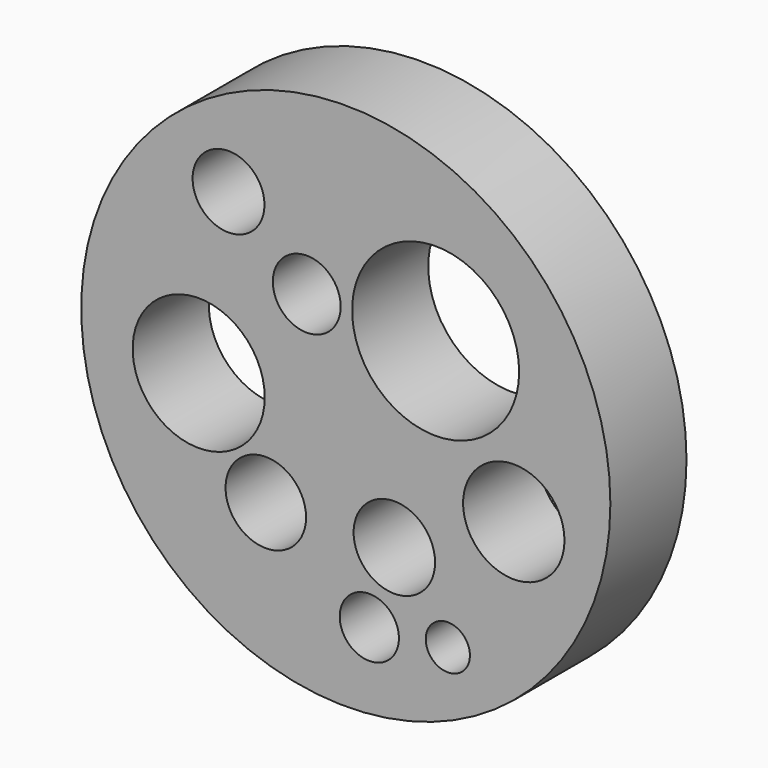
from build123d import *

# Parameters (mm, degrees)
F0_R     = 70.61683
F0_R_2   = 10.743272
F0_R_3   = 7.900031
F0_R_4   = 5.895287
F0_R_5   = 10.871221
F0_R_6   = 13.527406
F0_R_7   = 17.62582
F0_R_8   = 9.05794
F0_R_9   = 9.589183
F0_R_10  = 22.292863
F1_DEPTH = 25.4


with BuildPart() as f1:
    # F0 (on Front) → F1 (new body)
    with BuildSketch(Plane.XZ):
        Circle(F0_R)
        with BuildLine():
            add(Edge.make_bspline(
                [(-36.493111, 54.20525), (-28.936509, 63.090617), (-19.660517, 65.501802), (-1.222862, 65.507353), (7.822979, 62.653848), (27.277502, 62.879575), (43.372043, 46.346447), (64.920363, 20.765692), (66.314924, -28.447634), (9.468174, -86.877943), (-26.561742, -38.820197), (-61.127484, -39.01656), (-68.130881, 15.544394), (-52.448285, 35.444495), (-36.493111, 54.20525)],
                knots=[0, 0, 0, 0, 28.590315, 28.895697, 55.301946, 56.21809, 87.135629, 115.358246, 157.205567, 225.606973, 286.72147, 287.026855, 329.076759, 389.442964, 389.442964, 389.442964, 389.442964], degree=3))
        make_face(mode=Mode.SUBTRACT)
        with BuildLine():
            add(Edge.make_bspline(
                [(-36.493111, 54.20525), (-28.936509, 63.090617), (-19.660517, 65.501802), (-1.222862, 65.507353), (7.822979, 62.653848), (27.277502, 62.879575), (43.372043, 46.346447), (64.920363, 20.765692), (66.314924, -28.447634), (9.468174, -86.877943), (-26.561742, -38.820197), (-61.127484, -39.01656), (-68.130881, 15.544394), (-52.448285, 35.444495), (-36.493111, 54.20525)],
                knots=[0, 0, 0, 0, 28.590315, 28.895697, 55.301946, 56.21809, 87.135629, 115.358246, 157.205567, 225.606973, 286.72147, 287.026855, 329.076759, 389.442964, 389.442964, 389.442964, 389.442964], degree=3))
        make_face()
        with Locations((-21.352425, -29.642798)):
            Circle(F0_R_2, mode=Mode.SUBTRACT)
        with Locations((6.277252, -49.985524)):
            Circle(F0_R_3, mode=Mode.SUBTRACT)
        with Locations((27.227225, -47.860168)):
            Circle(F0_R_4, mode=Mode.SUBTRACT)
        with Locations((12.956953, -29.035555)):
            Circle(F0_R_5, mode=Mode.SUBTRACT)
        with Locations((44.837348, -12.639921)):
            Circle(F0_R_6, mode=Mode.SUBTRACT)
        with Locations((-39.266169, -5.049351)):
            Circle(F0_R_7, mode=Mode.SUBTRACT)
        with Locations((-10.422003, 22.88395)):
            Circle(F0_R_8, mode=Mode.SUBTRACT)
        with Locations((-31.301621, 40.157694)):
            Circle(F0_R_9, mode=Mode.SUBTRACT)
        with Locations((23.972461, 23.056319)):
            Circle(F0_R_10, mode=Mode.SUBTRACT)
    extrude(amount=F1_DEPTH)


solid = f1.part
